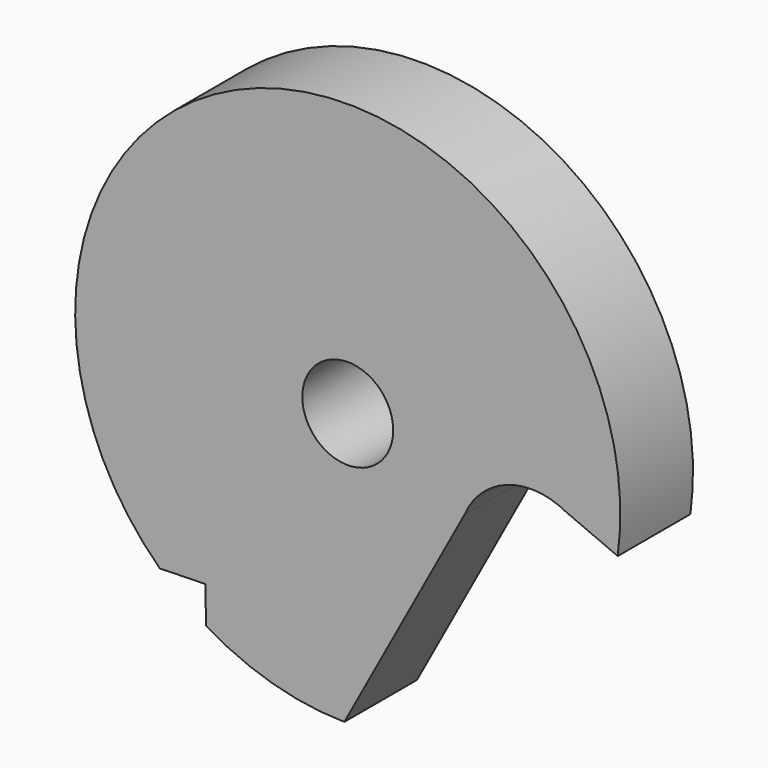
from build123d import *

# Parameters (mm, degrees)
F0_R     = 1.5875
F1_DEPTH = 1.5875


with BuildPart() as f1:
    # F0 (on Front) → F1 (new body, symmetric)
    with BuildSketch(Plane.XZ):
        with BuildLine():
            Line((-5.1659, -3.519312), (-5.135515, -4.79609))
            ThreePointArc((-5.135515, -4.79609), (-2.814035, -5.813167), (-0.306513, -6.182008))
            Line((-0.306513, -6.182008), (3.898676, 1.569076))
            ThreePointArc((3.898676, 1.569076), (5.39811, 2.967291), (7.441202, 2.796756))
            Line((7.441202, 2.796756), (9.247158, 2.025899))
            ThreePointArc((9.247158, 2.025899), (-3.324417, 12.335498), (-6.7534, -3.557092))
            Line((-6.7534, -3.557092), (-5.1659, -3.519312))
        make_face()
        with Locations((-0.186446, 3.342236)):
            Circle(F0_R, mode=Mode.SUBTRACT)
    extrude(amount=F1_DEPTH, both=True)


solid = f1.part
